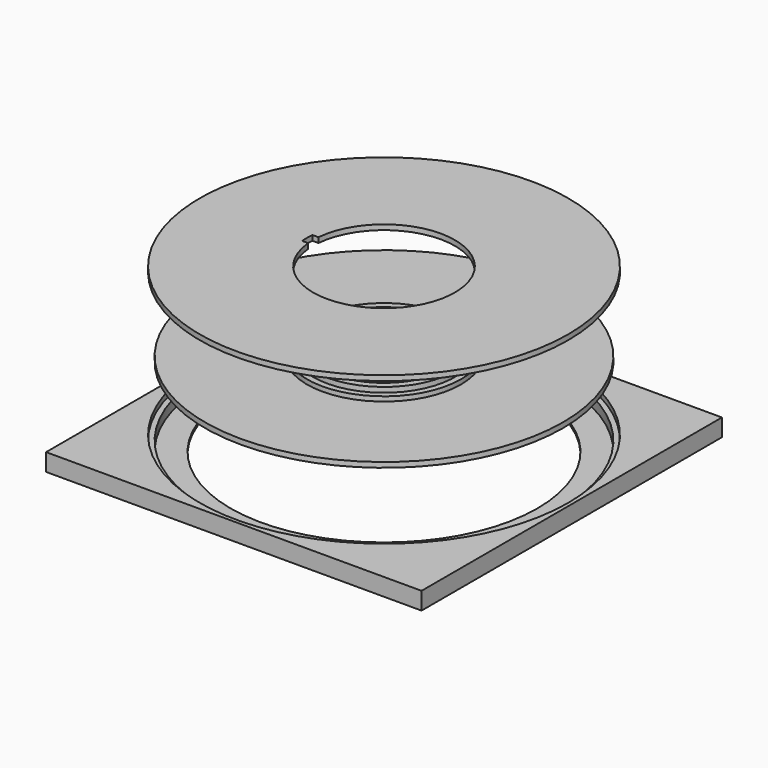
from build123d import *

# Parameters (mm, degrees)
F0_W      = 146.3
F0_H      = 146.3
F0_R      = 69.8
F1_DEPTH  = 6.8
F0_R_2    = 59.8
F2_DEPTH  = 1
F4_R      = 69.8
F4_R_2    = 30
F5_DEPTH  = 2
F4_R_3    = 25
F6_DEPTH  = 3.8
F7_R      = 25
F8_DEPTH  = 2
F9_R      = 0.8
F10_DEPTH = 31.0000001
F12_R     = 71.8
F13_DEPTH = 2
F14_R     = 0.8
F15_DEPTH = 3.3555847778
F16_R     = 71.8
F16_R_2   = 69.8
F17_DEPTH = 2
F18_DEPTH = 2


with BuildPart() as f1:
    # F0 (on Top) → F1 (new body)
    with BuildSketch(Plane.XY):
        Rectangle(F0_W, F0_H)
        Circle(F0_R, mode=Mode.SUBTRACT)
    extrude(amount=F1_DEPTH)

    # F0 (on Top) → F2 (join)
    with BuildSketch(Plane.XY):
        Circle(F0_R)
        Circle(F0_R_2, mode=Mode.SUBTRACT)
    extrude(amount=F2_DEPTH)

    # F14 (on face) → F15 (cut, through all)
    with BuildSketch(Plane(origin=(-73.15, 0, 0), x_dir=(0, -1, 0), z_dir=(-1, 0, 0))):
        with Locations((0, 2.8)):
            Circle(F14_R)
    extrude(amount=-F15_DEPTH, mode=Mode.SUBTRACT)

    # F16 (on face) → F17 (cut)
    with BuildSketch(Plane.XY.offset(6.8)):
        Circle(F16_R)
        Circle(F16_R_2, mode=Mode.SUBTRACT)
    extrude(amount=-F17_DEPTH, mode=Mode.SUBTRACT)


with BuildPart() as f5:
    # F4 (on offset) → F5 (new body)
    with BuildSketch(Plane.XY.offset(31.8)):
        Circle(F4_R)
        Circle(F4_R_2, mode=Mode.SUBTRACT)
    extrude(amount=F5_DEPTH)

    # F4 (on offset) → F6 (join)
    with BuildSketch(Plane.XY.offset(31.8)):
        Circle(F4_R_2)
        Circle(F4_R_3, mode=Mode.SUBTRACT)
    extrude(amount=F6_DEPTH)

    # F7 (on face) → F8 (join)
    with BuildSketch(Plane.XY.offset(35.6)):
        with BuildLine():
            ThreePointArc((-27.5355140939, -2.5), (1.2512820546, -27.6204422418), (27.6487709747, 0))
            ThreePointArc((27.6487709747, 0), (1.2512820546, 27.6204422418), (-27.5355140939, 2.5))
            ThreePointArc((-27.5355140939, 2.5), (-27.6487709747, 0), (-27.5355140939, -2.5))
        make_face()
        Circle(F7_R, mode=Mode.SUBTRACT)
        with BuildLine():
            ThreePointArc((-27.5355140939, -2.5), (-27.6487709747, 0), (-27.5355140939, 2.5))
            Line((-27.5355140939, 2.5), (-29.8956518578, 2.5))
            ThreePointArc((-29.8956518578, 2.5), (-30, 0), (-29.8956518578, -2.5))
            Line((-29.8956518578, -2.5), (-27.5355140939, -2.5))
        make_face()
    extrude(amount=F8_DEPTH)

    # F9 (on Right) → F10 (cut, up to face)
    with BuildSketch(Plane.YZ):
        with Locations((0, 34.6)):
            Circle(F9_R)
    extrude(amount=-F10_DEPTH, mode=Mode.SUBTRACT)

    # F7 (on face) → F18 (join)
    with BuildSketch(Plane.XY.offset(35.6)):
        with BuildLine():
            ThreePointArc((-27.5355140939, -2.5), (1.2512820546, -27.6204422418), (27.6487709747, 0))
            ThreePointArc((27.6487709747, 0), (1.2512820546, 27.6204422418), (-27.5355140939, 2.5))
            ThreePointArc((-27.5355140939, 2.5), (-27.6487709747, 0), (-27.5355140939, -2.5))
        make_face()
        Circle(F7_R, mode=Mode.SUBTRACT)
        with BuildLine():
            ThreePointArc((-27.5355140939, -2.5), (-27.6487709747, 0), (-27.5355140939, 2.5))
            Line((-27.5355140939, 2.5), (-29.8956518578, 2.5))
            ThreePointArc((-29.8956518578, 2.5), (-30, 0), (-29.8956518578, -2.5))
            Line((-29.8956518578, -2.5), (-27.5355140939, -2.5))
        make_face()
    extrude(amount=F18_DEPTH)


with BuildPart() as f13:
    # F12 (on offset) → F13 (new body)
    with BuildSketch(Plane.XY.offset(62.6)):
        Circle(F12_R)
        with BuildLine():
            ThreePointArc((-29.8956518578, 2.5), (30, 0), (-29.8956518578, -2.5))
            ThreePointArc((-29.8956518578, -2.5), (-30, 0), (-29.8956518578, 2.5))
        make_face(mode=Mode.SUBTRACT)
        with BuildLine():
            Line((-27.5355140939, -2.5), (-29.8956518578, -2.5))
            ThreePointArc((-29.8956518578, -2.5), (30, 0), (-29.8956518578, 2.5))
            Line((-29.8956518578, 2.5), (-27.5355140939, 2.5))
            ThreePointArc((-27.5355140939, 2.5), (27.6487709747, 0), (-27.5355140939, -2.5))
        make_face()
    extrude(amount=F13_DEPTH)


solid = Compound([f1.part, f5.part, f13.part])
